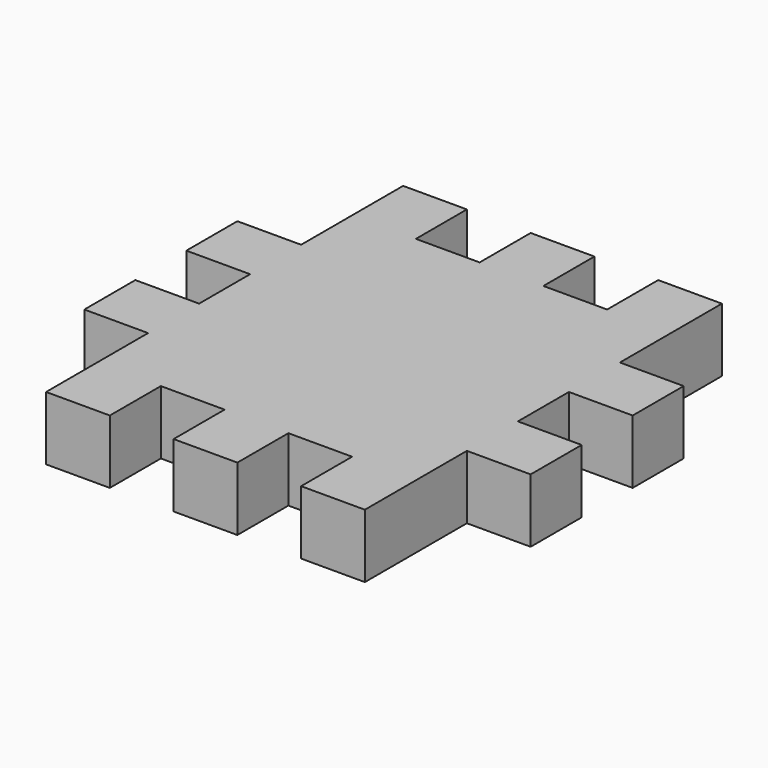
from build123d import *

# Parameters (mm, degrees)
F0_W     = 127
F0_H     = 127
F1_DEPTH = 127


with BuildPart() as f1:
    # F0 (on Top) → F1 (new body)
    with BuildSketch(Plane.XY):
        with Locations((63.5, 63.5)):
            Rectangle(F0_W, F0_H)
        Polygon((127, 0), (0, 0), (0, -127), (0, -254), (0, -381), (0, -508), (0, -635), (127, -635), (254, -635), (381, -635), (508, -635), (635, -635), (635, -508), (635, -381), (635, -254), (635, -127), (635, 0), (508, 0), (381, 0), (254, 0), align=None)
        with Locations((-63.5, -190.5)):
            Rectangle(F0_W, F0_H)
        with Locations((317.5, 63.5)):
            Rectangle(F0_W, F0_H)
        with Locations((-63.5, -444.5)):
            Rectangle(F0_W, F0_H)
        with Locations((571.5, 63.5)):
            Rectangle(F0_W, F0_H)
        with Locations((63.5, -698.5)):
            Rectangle(F0_W, F0_H)
        with Locations((698.5, -190.5)):
            Rectangle(F0_W, F0_H)
        with Locations((317.5, -698.5)):
            Rectangle(F0_W, F0_H)
        with Locations((698.5, -444.5)):
            Rectangle(F0_W, F0_H)
        with Locations((571.5, -698.5)):
            Rectangle(F0_W, F0_H)
    extrude(amount=F1_DEPTH)


solid = f1.part
